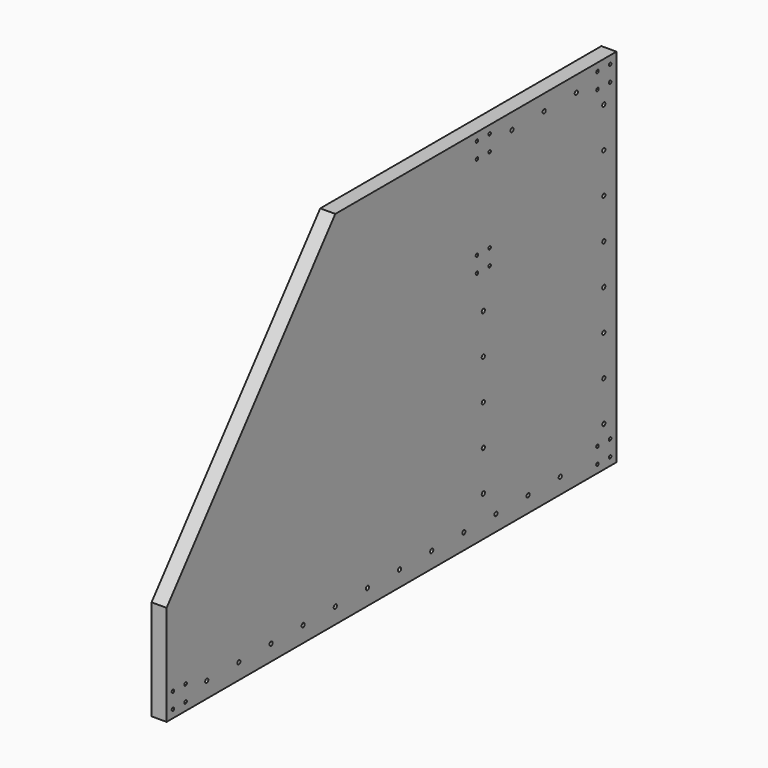
from build123d import *

# Parameters (mm, degrees)
F0_R     = 2
F0_R_2   = 2.5
F1_DEPTH = 19.05


with BuildPart() as f1:
    # F0 (on Right) → F1 (new body)
    with BuildSketch(Plane.YZ):
        Polygon((-355.6, -101.6), (-355.6, -228.6), (355.6, -228.6), (355.6, 228.6), (-88.9, 228.6), align=None)
        with Locations((-345.6, -218.6)):
            Circle(F0_R, mode=Mode.SUBTRACT)
        with Locations((-325.6, -218.6)):
            Circle(F0_R, mode=Mode.SUBTRACT)
        with Locations((-292.1, -208.6)):
            Circle(F0_R_2, mode=Mode.SUBTRACT)
        with Locations((-345.6, -198.6)):
            Circle(F0_R, mode=Mode.SUBTRACT)
        with Locations((-325.6, -198.6)):
            Circle(F0_R, mode=Mode.SUBTRACT)
        with Locations((-241.3, -208.6)):
            Circle(F0_R_2, mode=Mode.SUBTRACT)
        with Locations((-190.5, -208.6)):
            Circle(F0_R_2, mode=Mode.SUBTRACT)
        with Locations((-139.7, -208.6)):
            Circle(F0_R_2, mode=Mode.SUBTRACT)
        with Locations((-88.9, -208.6)):
            Circle(F0_R_2, mode=Mode.SUBTRACT)
        with Locations((-38.1, -208.6)):
            Circle(F0_R_2, mode=Mode.SUBTRACT)
        with Locations((12.7, -208.6)):
            Circle(F0_R_2, mode=Mode.SUBTRACT)
        with Locations((63.5, -208.6)):
            Circle(F0_R_2, mode=Mode.SUBTRACT)
        with Locations((114.3, -208.6)):
            Circle(F0_R_2, mode=Mode.SUBTRACT)
        with Locations((165.1, -208.6)):
            Circle(F0_R_2, mode=Mode.SUBTRACT)
        with Locations((145.1, -177.8)):
            Circle(F0_R_2, mode=Mode.SUBTRACT)
        with Locations((145.1, -127)):
            Circle(F0_R_2, mode=Mode.SUBTRACT)
        with Locations((215.9, -208.6)):
            Circle(F0_R_2, mode=Mode.SUBTRACT)
        with Locations((266.7, -208.6)):
            Circle(F0_R_2, mode=Mode.SUBTRACT)
        with Locations((325.6, -218.6)):
            Circle(F0_R, mode=Mode.SUBTRACT)
        with Locations((345.6, -218.6)):
            Circle(F0_R, mode=Mode.SUBTRACT)
        with Locations((325.6, -198.6)):
            Circle(F0_R, mode=Mode.SUBTRACT)
        with Locations((345.6, -198.6)):
            Circle(F0_R, mode=Mode.SUBTRACT)
        with Locations((335.6, -177.8)):
            Circle(F0_R_2, mode=Mode.SUBTRACT)
        with Locations((335.6, -127)):
            Circle(F0_R_2, mode=Mode.SUBTRACT)
        with Locations((145.1, -76.2)):
            Circle(F0_R_2, mode=Mode.SUBTRACT)
        with Locations((145.1, -25.4)):
            Circle(F0_R_2, mode=Mode.SUBTRACT)
        with Locations((335.6, -76.2)):
            Circle(F0_R_2, mode=Mode.SUBTRACT)
        with Locations((335.6, -25.4)):
            Circle(F0_R_2, mode=Mode.SUBTRACT)
        with Locations((145.1, 25.4)):
            Circle(F0_R_2, mode=Mode.SUBTRACT)
        with Locations((135.1, 71.6)):
            Circle(F0_R, mode=Mode.SUBTRACT)
        with Locations((155.1, 71.6)):
            Circle(F0_R, mode=Mode.SUBTRACT)
        with Locations((135.1, 91.6)):
            Circle(F0_R, mode=Mode.SUBTRACT)
        with Locations((155.1, 91.6)):
            Circle(F0_R, mode=Mode.SUBTRACT)
        with Locations((335.6, 25.4)):
            Circle(F0_R_2, mode=Mode.SUBTRACT)
        with Locations((335.6, 76.2)):
            Circle(F0_R_2, mode=Mode.SUBTRACT)
        with Locations((135.1, 198.6)):
            Circle(F0_R, mode=Mode.SUBTRACT)
        with Locations((155.1, 198.6)):
            Circle(F0_R, mode=Mode.SUBTRACT)
        with Locations((135.1, 218.6)):
            Circle(F0_R, mode=Mode.SUBTRACT)
        with Locations((155.1, 218.6)):
            Circle(F0_R, mode=Mode.SUBTRACT)
        with Locations((335.6, 127)):
            Circle(F0_R_2, mode=Mode.SUBTRACT)
        with Locations((190.5, 208.6)):
            Circle(F0_R_2, mode=Mode.SUBTRACT)
        with Locations((241.3, 208.6)):
            Circle(F0_R_2, mode=Mode.SUBTRACT)
        with Locations((335.6, 177.8)):
            Circle(F0_R_2, mode=Mode.SUBTRACT)
        with Locations((325.6, 198.6)):
            Circle(F0_R, mode=Mode.SUBTRACT)
        with Locations((345.6, 198.6)):
            Circle(F0_R, mode=Mode.SUBTRACT)
        with Locations((292.1, 208.6)):
            Circle(F0_R_2, mode=Mode.SUBTRACT)
        with Locations((325.6, 218.6)):
            Circle(F0_R, mode=Mode.SUBTRACT)
        with Locations((345.6, 218.6)):
            Circle(F0_R, mode=Mode.SUBTRACT)
    extrude(amount=F1_DEPTH)


solid = f1.part
